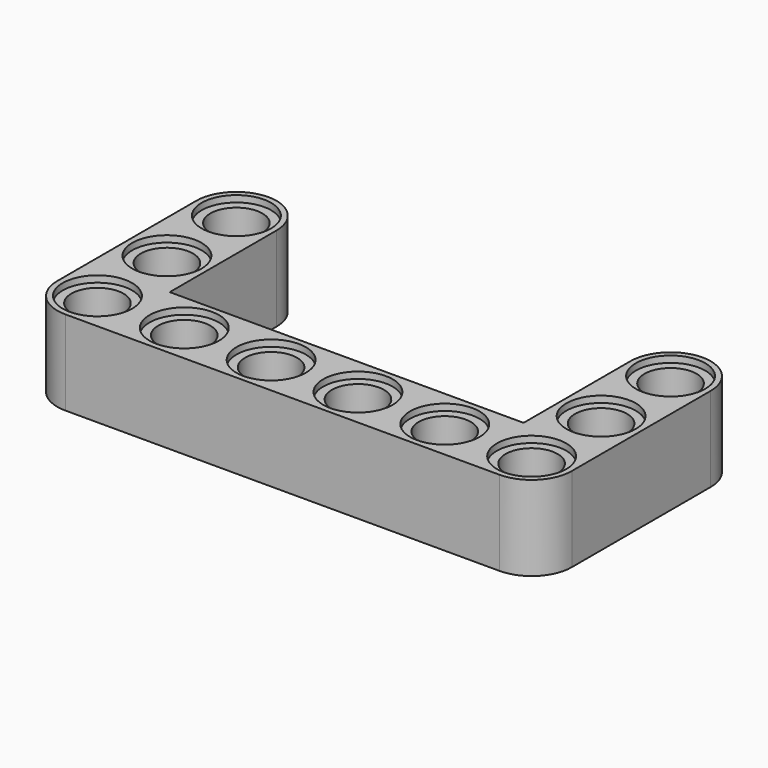
from build123d import *

# Parameters (mm, degrees)
F0_R     = 2.4
F1_DEPTH = 7.8
F2_R     = 3.2
F3_DEPTH = 0.6
F4_R     = 3.2
F5_DEPTH = 0.6


with BuildPart() as f1:
    # F0 (on Top) → F1 (new body)
    with BuildSketch(Plane.XY):
        with BuildLine():
            ThreePointArc((-3.7, 3.7), (-2.616295, 1.083705), (0, 0))
            Line((0, 0), (40, 0))
            ThreePointArc((40, 0), (42.616295, 1.083705), (43.7, 3.7))
            ThreePointArc((43.7, 3.7), (42.616295, 6.316295), (40, 7.4))
            Line((40, 7.4), (36.3, 7.4))
            Line((36.3, 7.4), (3.7, 7.4))
            Line((3.7, 7.4), (3.7, 19.7))
            ThreePointArc((3.7, 19.7), (0, 23.4), (-3.7, 19.7))
            Line((-3.7, 19.7), (-3.7, 3.7))
        make_face()
        with Locations((0, 3.7)):
            Circle(F0_R, mode=Mode.SUBTRACT)
        with Locations((8, 3.7)):
            Circle(F0_R, mode=Mode.SUBTRACT)
        with Locations((16, 3.7)):
            Circle(F0_R, mode=Mode.SUBTRACT)
        with Locations((24, 3.7)):
            Circle(F0_R, mode=Mode.SUBTRACT)
        with Locations((32, 3.7)):
            Circle(F0_R, mode=Mode.SUBTRACT)
        with Locations((40, 3.7)):
            Circle(F0_R, mode=Mode.SUBTRACT)
        with Locations((0, 11.7)):
            Circle(F0_R, mode=Mode.SUBTRACT)
        with Locations((0, 19.7)):
            Circle(F0_R, mode=Mode.SUBTRACT)
        with BuildLine():
            ThreePointArc((40, 7.4), (42.616295, 6.316295), (43.7, 3.7))
            Line((43.7, 3.7), (43.7, 19.7))
            ThreePointArc((43.7, 19.7), (40, 23.4), (36.3, 19.7))
            Line((36.3, 19.7), (36.3, 7.4))
            Line((36.3, 7.4), (40, 7.4))
        make_face()
        with Locations((40, 11.7)):
            Circle(F0_R, mode=Mode.SUBTRACT)
        with Locations((40, 19.7)):
            Circle(F0_R, mode=Mode.SUBTRACT)
    extrude(amount=F1_DEPTH)

    # F2 (on face) → F3 (cut)
    with BuildSketch(Plane.XY.offset(7.8)):
        with Locations((0, 3.7)):
            Circle(F2_R)
        with Locations((8, 3.7)):
            Circle(F2_R)
        with Locations((16, 3.7)):
            Circle(F2_R)
        with Locations((24, 3.7)):
            Circle(F2_R)
        with Locations((32, 3.7)):
            Circle(F2_R)
        with Locations((40, 3.7)):
            Circle(F2_R)
        with Locations((0, 11.7)):
            Circle(F2_R)
        with Locations((40, 11.7)):
            Circle(F2_R)
        with Locations((0, 19.7)):
            Circle(F2_R)
        with Locations((40, 19.7)):
            Circle(F2_R)
    extrude(amount=-F3_DEPTH, mode=Mode.SUBTRACT)

    # F4 (on face) → F5 (cut)
    with BuildSketch(Plane(origin=(0, 0, 0), x_dir=(1, 0, 0), z_dir=(0, 0, -1))):
        with Locations((0, -11.7)):
            Circle(F4_R)
        with Locations((0, -3.7)):
            Circle(F4_R)
        with Locations((8, -3.7)):
            Circle(F4_R)
        with Locations((16, -3.7)):
            Circle(F4_R)
        with Locations((24, -3.7)):
            Circle(F4_R)
        with Locations((32, -3.7)):
            Circle(F4_R)
        with Locations((40, -3.7)):
            Circle(F4_R)
        with Locations((40, -11.7)):
            Circle(F4_R)
        with Locations((0, -19.7)):
            Circle(F4_R)
        with Locations((40, -19.7)):
            Circle(F4_R)
    extrude(amount=-F5_DEPTH, mode=Mode.SUBTRACT)


solid = f1.part
